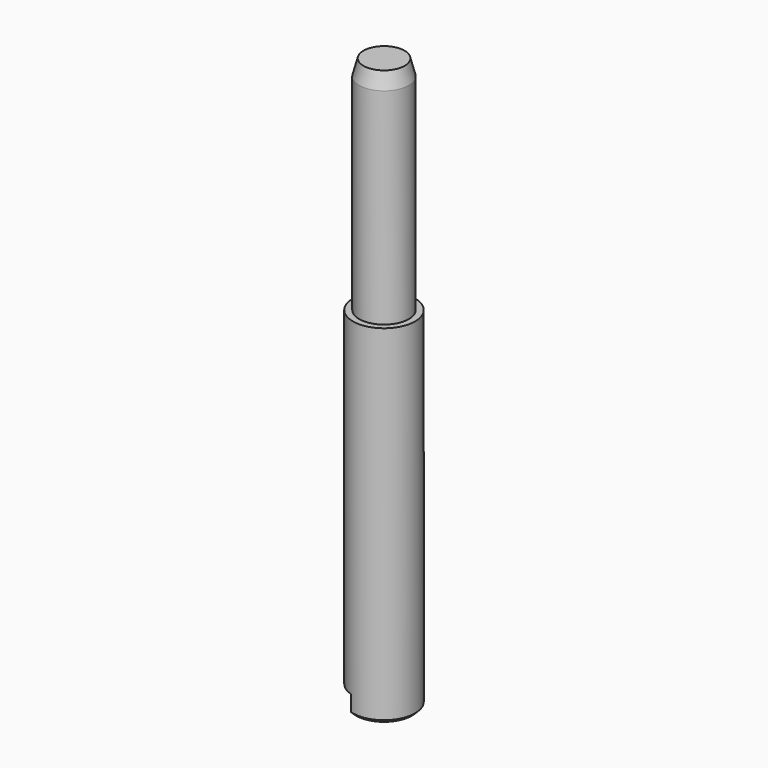
from build123d import *

# Parameters (mm, degrees)
F0_R     = 0.9816666667
F1_DEPTH = 11
F2_R     = 0.7843333333
F3_DEPTH = 7
F4_SIZE  = 0.1
F5_SIZE2 = 0.1339745962
F5_SIZE  = 0.5
F6_W     = 0.7
F6_H     = 0.6
F7_DEPTH = 1
F8_SCALE = 3


with BuildPart() as f1:
    # F0 (on Top) → F1 (new body)
    with BuildSketch(Plane.XY):
        Circle(F0_R)
    extrude(amount=F1_DEPTH)

    # F2 (on face) → F3 (join)
    with BuildSketch(Plane.XY.offset(11)):
        Circle(F2_R)
    extrude(amount=F3_DEPTH)

    # F4
    f4_edges = [f1.edges().sort_by_distance(p)[0] for p in [
        (-0.981667, 0, 0),
    ]]
    chamfer(f4_edges, length=F4_SIZE)

    # F5
    f5_edges = [f1.edges().sort_by_distance(p)[0] for p in [
        (-0.784333, 0, 18),
    ]]
    f5_side = f1.faces().sort_by_distance((-0.784333, 0, 14.5))[0]
    chamfer(f5_edges, length=F5_SIZE, length2=F5_SIZE2, reference=f5_side)

    # F6 (on Front) → F7 (cut, symmetric)
    with BuildSketch(Plane.XZ):
        with Locations((-0.65, 0.3)):
            Rectangle(F6_W, F6_H)
    extrude(amount=F7_DEPTH, both=True, mode=Mode.SUBTRACT)


with BuildPart() as f1_1:
    # F8: moved
    add(f1.part.scale(F8_SCALE))


solid = f1_1.part
